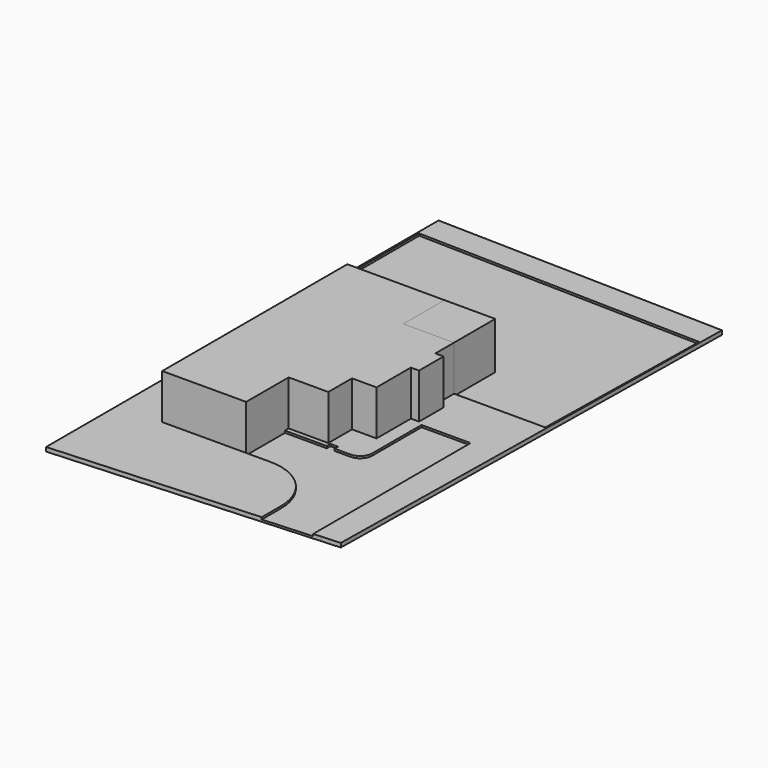
from build123d import *

# Parameters (mm, degrees)
F1_DEPTH = 12.7
F2_DEPTH = 304.8
F3_DEPTH = 12.7
F4_DEPTH = 25.4
F0_W     = 314.96
F0_H     = 320.04
F5_DEPTH = 304.8


with BuildPart() as f1:
    # F0 (on Top) → F1 (new body)
    with BuildSketch(Plane.XY):
        with BuildLine():
            Line((1278.22876, 227.33), (1278.22876, 77.585675))
            Line((1278.22876, 77.585675), (1583.02876, 96.086365))
            Line((1583.02876, 96.086365), (1583.02876, 1319.010139))
            Line((1583.02876, 1319.010139), (1278.22876, 1319.010139))
            Line((1278.22876, 1319.010139), (1278.22876, 937.244884))
            ThreePointArc((1278.22876, 937.244884), (1255.910296, 883.363347), (1202.02876, 861.044884))
            Line((1202.02876, 861.044884), (1105.124354, 861.044884))
            Line((1105.124354, 861.044884), (1105.124354, 887.73))
            Line((1105.124354, 887.73), (1057.4615, 887.73))
            Line((1057.4615, 887.73), (1057.4615, 858.867228))
            Line((1057.4615, 858.867228), (797.56, 858.867228))
            Line((797.56, 858.867228), (797.56, 557.53))
            Line((797.56, 557.53), (948.02876, 557.53))
            ThreePointArc((948.02876, 557.53), (1181.515419, 460.816659), (1278.22876, 227.33))
        make_face()
    extrude(amount=F1_DEPTH)


with BuildPart() as f2:
    # F0 (on Top) → F2 (new body)
    with BuildSketch(Plane.XY):
        Polygon((276.86, 1715.601564), (276.86, 556.26), (797.56, 557.53), (797.56, 858.867228), (797.56, 887.73), (1043.94, 887.73), (1043.94, 1071.88), (1196.34, 1071.88), (1196.34, 1338.58), (1247.14, 1338.58), (1247.14, 1529.08), (1196.34, 1529.08), (1196.34, 1673.86), (881.38, 1673.86), (881.38, 1993.9), (276.86, 1993.9), align=None)
    extrude(amount=F2_DEPTH)


with BuildPart() as f3:
    # F0 (on Top) → F3 (new body)
    with BuildSketch(Plane.XY):
        Polygon((11.908554, 1715.601564), (276.86, 1715.601564), (276.86, 1993.9), (881.38, 1993.9), (1196.34, 1993.9), (1196.34, 1673.86), (1763.596684, 1673.86), (1785.409082, 2842.26), (11.908554, 2884.001564), align=None)
    extrude(amount=F3_DEPTH)


with BuildPart() as f4:
    # F0 (on Top) → F4 (new body)
    with BuildSketch(Plane.XY):
        with BuildLine():
            Line((0, 3049.016), (0, 556.26))
            Line((0, 556.26), (276.86, 556.26))
            Line((276.86, 556.26), (276.86, 1715.601564))
            Line((276.86, 1715.601564), (11.908554, 1715.601564))
            Line((11.908554, 1715.601564), (11.908554, 2884.001564))
            Line((11.908554, 2884.001564), (1785.409082, 2842.26))
            Line((1785.409082, 2842.26), (1763.596684, 1673.86))
            Line((1763.596684, 1673.86), (1196.34, 1673.86))
            Line((1196.34, 1673.86), (1196.34, 1529.08))
            Line((1196.34, 1529.08), (1247.14, 1529.08))
            Line((1247.14, 1529.08), (1247.14, 1338.58))
            Line((1247.14, 1338.58), (1196.34, 1338.58))
            Line((1196.34, 1338.58), (1196.34, 1071.88))
            Line((1196.34, 1071.88), (1196.34, 887.73))
            Line((1196.34, 887.73), (1105.124354, 887.73))
            Line((1105.124354, 887.73), (1105.124354, 861.044884))
            Line((1105.124354, 861.044884), (1202.02876, 861.044884))
            ThreePointArc((1202.02876, 861.044884), (1255.910296, 883.363347), (1278.22876, 937.244884))
            Line((1278.22876, 937.244884), (1278.22876, 1319.010139))
            Line((1278.22876, 1319.010139), (1583.02876, 1319.010139))
            Line((1583.02876, 1319.010139), (1583.02876, 96.086365))
            Line((1583.02876, 96.086365), (1628.516358, 98.847362))
            Line((1628.516358, 98.847362), (1746.845075, 106.029655))
            Line((1746.845075, 106.029655), (1795.028886, 3006.767739))
            Line((1795.028886, 3006.767739), (0, 3049.016))
        make_face()
        with BuildLine():
            Line((0, 556.26), (0, 0))
            Line((0, 0), (1278.22876, 77.585675))
            Line((1278.22876, 77.585675), (1278.22876, 227.33))
            ThreePointArc((1278.22876, 227.33), (1181.515419, 460.816659), (948.02876, 557.53))
            Line((948.02876, 557.53), (797.56, 557.53))
            Line((797.56, 557.53), (276.86, 556.26))
            Line((276.86, 556.26), (0, 556.26))
        make_face()
        Polygon((1043.94, 1071.88), (1043.94, 887.73), (1057.4615, 887.73), (1105.124354, 887.73), (1196.34, 887.73), (1196.34, 1071.88), align=None)
        Polygon((797.56, 887.73), (797.56, 858.867228), (1057.4615, 858.867228), (1057.4615, 887.73), (1043.94, 887.73), align=None)
    extrude(amount=F4_DEPTH)


with BuildPart() as f5:
    # F0 (on Top) → F5 (new body)
    with BuildSketch(Plane.XY):
        with Locations((1038.86, 1833.88)):
            Rectangle(F0_W, F0_H)
    extrude(amount=F5_DEPTH)


solid = Compound([f1.part, f2.part, f3.part, f4.part, f5.part])
